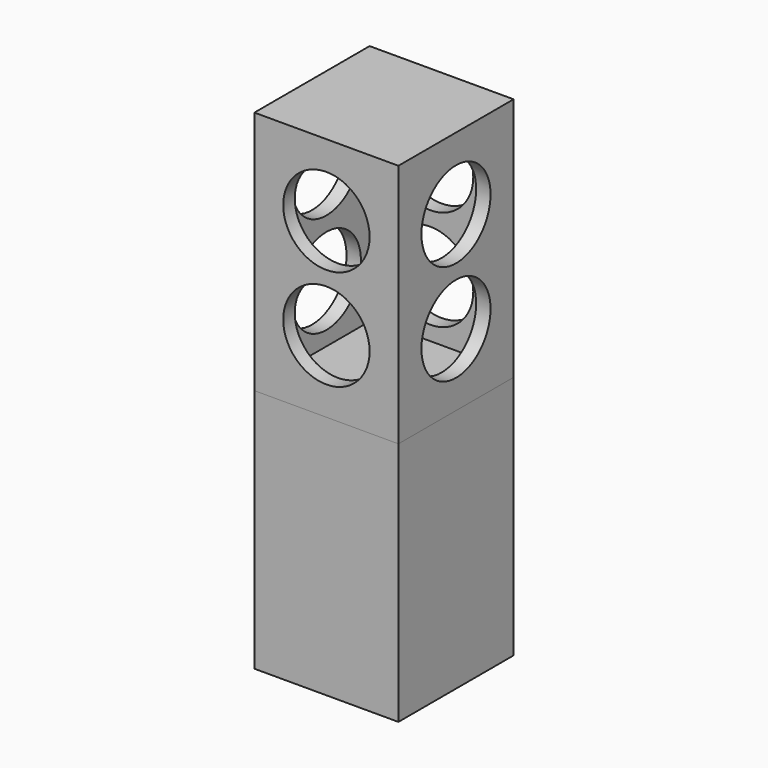
from build123d import *

# Parameters (mm, degrees)
F0_W     = 500
F0_H     = 500
F1_DEPTH = 850
F2_R     = 150
F3_DEPTH = 500.001
F4_R     = 150
F5_DEPTH = 500.001
F6_W     = 400
F6_H     = 400
F7_DEPTH = 800
F8_DEPTH = 850
F9_DEPTH = 50


with BuildPart() as f1:
    # F0 (on Top) → F1 (new body)
    with BuildSketch(Plane.XY):
        Rectangle(F0_W, F0_H)
    extrude(amount=F1_DEPTH)

    # F2 (on face) → F3 (cut, through all)
    with BuildSketch(Plane.XZ.offset(250)):
        with Locations((0, 600)):
            Circle(F2_R)
        with Locations((0, 250)):
            Circle(F2_R)
    extrude(amount=-F3_DEPTH, mode=Mode.SUBTRACT)

    # F4 (on face) → F5 (cut, through all)
    with BuildSketch(Plane(origin=(-250, 0, 0), x_dir=(0, -1, 0), z_dir=(-1, 0, 0))):
        with Locations((0, 250)):
            Circle(F4_R)
        with Locations((0, 600)):
            Circle(F4_R)
    extrude(amount=-F5_DEPTH, mode=Mode.SUBTRACT)

    # F6 (on face) → F7 (cut)
    with BuildSketch(Plane(origin=(0, 0, 0), x_dir=(1, 0, 0), z_dir=(0, 0, -1))):
        Rectangle(F6_W, F6_H)
    extrude(amount=-F7_DEPTH, mode=Mode.SUBTRACT)


with BuildPart() as f8:
    # F0 (on Top) → F8 (new body)
    with BuildSketch(Plane.XY):
        Rectangle(F0_W, F0_H)
    extrude(amount=-F8_DEPTH)

    # F6 (on face) → F9 (join)
    with BuildSketch(Plane(origin=(0, 0, 0), x_dir=(1, 0, 0), z_dir=(0, 0, -1))):
        Rectangle(F6_W, F6_H)
    extrude(amount=-F9_DEPTH)


solid = Compound([f1.part, f8.part])
